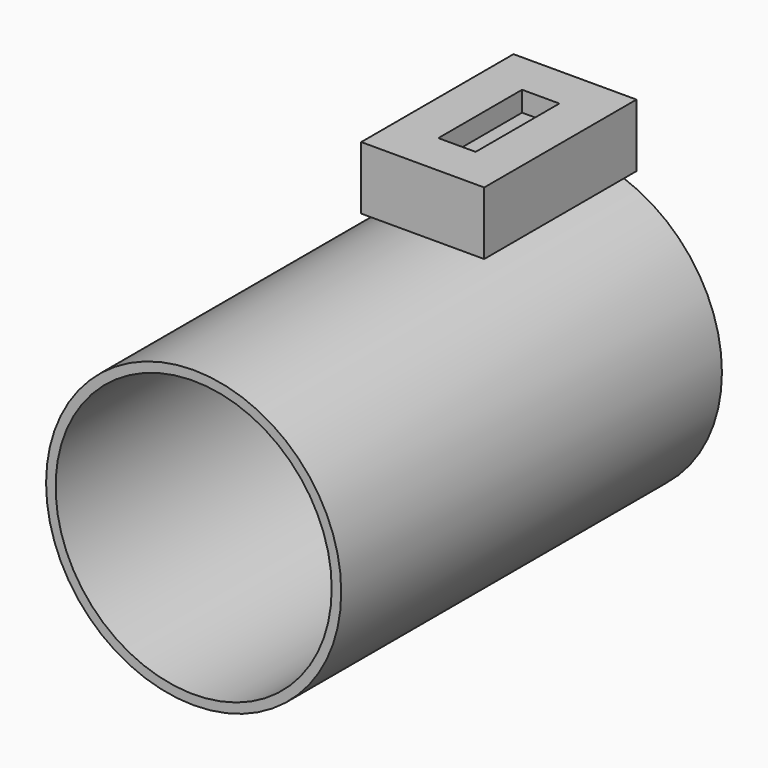
from build123d import *

# Parameters (mm, degrees)
F0_R     = 39.383021
F1_DEPTH = 127
F2_T     = -2.54
F4_DEPTH = 50.8
F5_T     = -11.43


with BuildPart() as f1:
    # F0 (on Front) → F1 (new body)
    with BuildSketch(Plane.XZ):
        Circle(F0_R)
        Circle(F0_R)
    extrude(amount=F1_DEPTH)

    # F2
    f2_openings = [f1.faces().sort_by_distance(p)[0] for p in [
        (0, -127, 0),
    ]]
    offset(amount=F2_T, openings=f2_openings)


with BuildPart() as f4:
    # F3 (on Front) → F4 (new body)
    with BuildSketch(Plane.XZ):
        Polygon((-16.236335, 39.86939), (0, 39.86939), (16.581327, 39.86939), (16.581327, 56.685053), (-16.236335, 56.685053), align=None)
    extrude(amount=F4_DEPTH)

    # F5
    f5_openings = [f4.faces().sort_by_distance(p)[0] for p in [
        (0.172496, -25.4, 56.685053),
    ]]
    offset(amount=F5_T, openings=f5_openings)


solid = Compound([f1.part, f4.part])
